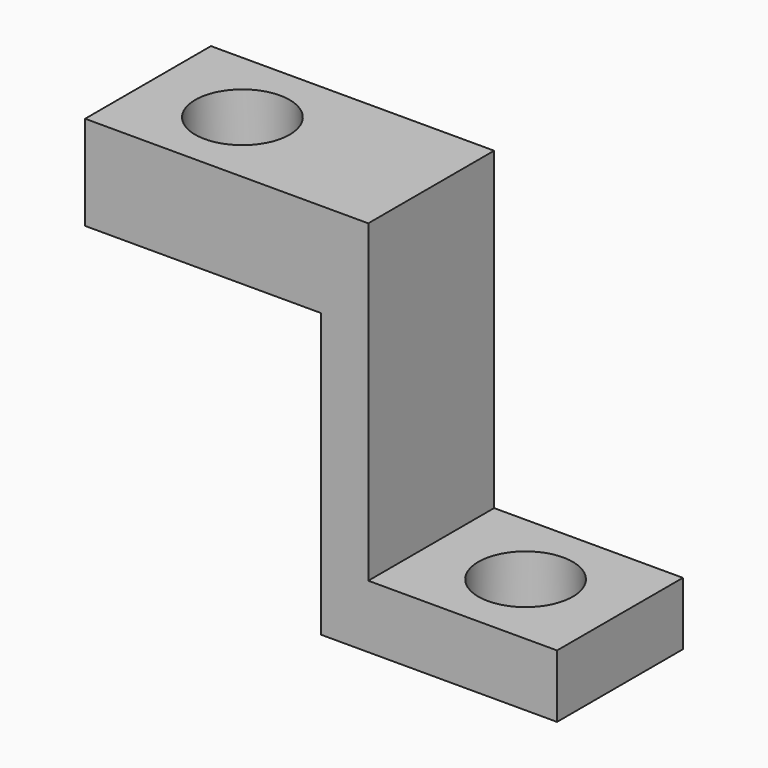
from build123d import *

# Parameters (mm, degrees)
F1_DEPTH       = 50
F3_D           = 16
F3_CBORE_D     = 30
F3_CBORE_DEPTH = 20
F5_D           = 30
F5_CBORE_D     = 30
F5_CBORE_DEPTH = 20


with BuildPart() as f1:
    # F0 (on Front) → F1 (new body)
    with BuildSketch(Plane.XZ):
        Polygon((0, 100), (-90, 100), (-90, 70), (-15, 70), (-15, -20), (60, -20), (60, 0), (0, 0), align=None)
    extrude(amount=F1_DEPTH)

    # F3 (through all)
    with Locations(Plane.XY.offset(100)):
        with Locations((-60, -25)):
            CounterBoreHole(F3_D / 2, F3_CBORE_D / 2, F3_CBORE_DEPTH)

    # F5 (through all)
    with Locations(Plane.XY):
        with Locations((30, -25)):
            CounterBoreHole(F5_D / 2, F5_CBORE_D / 2, F5_CBORE_DEPTH)


solid = f1.part
